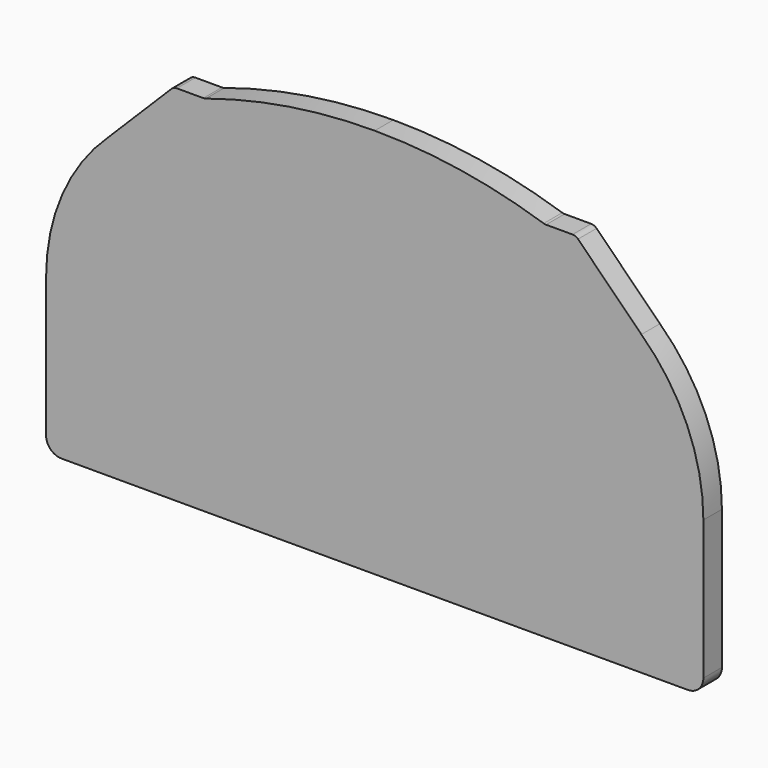
from build123d import *

# Parameters (mm, degrees)
F1_DEPTH = 9.525


with BuildPart() as f1:
    # F0 (on Front) → F1 (new body)
    with BuildSketch(Plane.XZ):
        with BuildLine():
            ThreePointArc((0, 6.35), (1.859872, 1.859872), (6.35, 0))
            Line((6.35, 0), (134.9375, 0))
            Line((134.9375, 0), (263.525, 0))
            ThreePointArc((263.525, 0), (268.015128, 1.859872), (269.875, 6.35))
            Line((269.875, 6.35), (269.875, 63.5))
            ThreePointArc((269.875, 63.5), (263.24032, 95.527808), (244.428268, 122.284232))
            Line((244.428268, 122.284232), (218.417436, 148.295064))
            ThreePointArc((218.417436, 148.295064), (217.387392, 148.983318), (216.172372, 149.225))
            Line((216.172372, 149.225), (205.2908, 149.225))
            ThreePointArc((205.2908, 149.225), (204.795442, 149.263881), (204.312215, 149.37957))
            ThreePointArc((204.312215, 149.37957), (170.054901, 157.581141), (134.9375, 160.3375))
            ThreePointArc((134.9375, 160.3375), (99.820099, 157.581141), (65.562785, 149.37957))
            ThreePointArc((65.562785, 149.37957), (65.079558, 149.263881), (64.5842, 149.225))
            Line((64.5842, 149.225), (53.702628, 149.225))
            ThreePointArc((53.702628, 149.225), (52.487608, 148.983318), (51.457564, 148.295064))
            Line((51.457564, 148.295064), (25.446732, 122.284232))
            ThreePointArc((25.446732, 122.284232), (6.63468, 95.527808), (0, 63.5))
            Line((0, 63.5), (0, 6.35))
        make_face()
    extrude(amount=F1_DEPTH)


solid = f1.part
